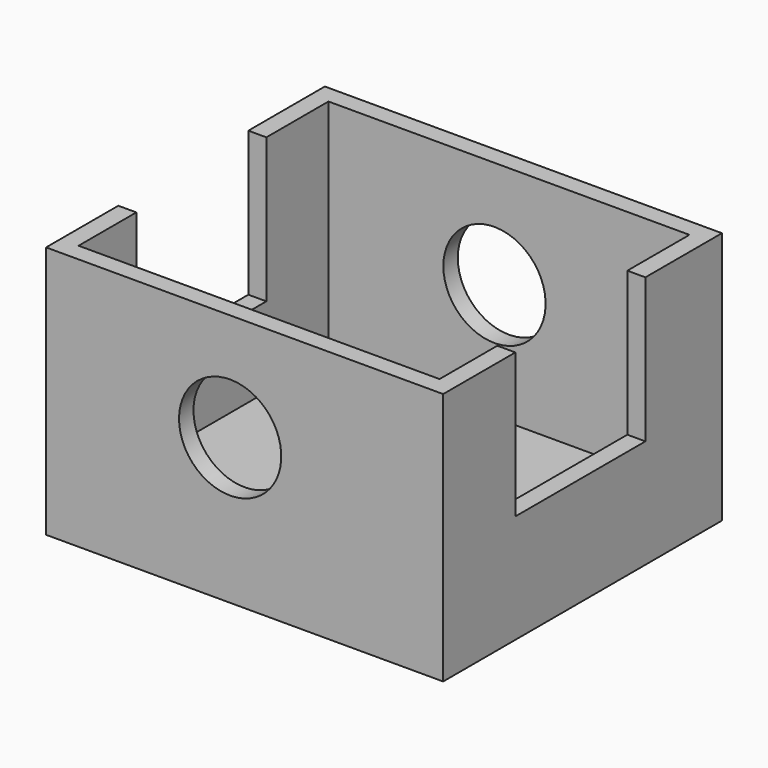
from build123d import *

# Parameters (mm, degrees)
F0_W      = 110
F0_H      = 70
F1_DEPTH  = 8
F2_W      = 5
F2_H      = 40
F2_H_2    = 25
F3_DEPTH  = 62.1
F4_W      = 28
F4_H      = 40
F5_DEPTH  = 117.8
F7_DEPTH  = 15.5
F8_DEPTH  = 17
F9_R      = 14.1609686348
F10_DEPTH = 96.5309327604


with BuildPart() as f1:
    # F0 (on Top) → F1 (new body)
    with BuildSketch(Plane.XY):
        with Locations((4.0090922266, 13.2649663802)):
            Rectangle(F0_W, F0_H)
    extrude(amount=F1_DEPTH)

    # F2 (on face) → F3 (join)
    with BuildSketch(Plane.XY.offset(8)):
        Polygon((59.0090922266, 48.2649663802), (-50.9909077734, 48.2649663802), (-50.9909077734, 43.2649663802), (-45.9909077734, 43.2649663802), (54.0090922266, 43.2649663802), (59.0090922266, 43.2649663802), align=None)
        with Locations((-48.4909077734, 23.2649663802)):
            Rectangle(F2_W, F2_H)
        with Locations((56.5090922266, 23.2649663802)):
            Rectangle(F2_W, F2_H)
        with Locations((-48.4909077734, -9.2350336198)):
            Rectangle(F2_W, F2_H_2)
        with Locations((56.5090922266, -9.2350336198)):
            Rectangle(F2_W, F2_H_2)
    extrude(amount=F3_DEPTH)

    # F4 (on face) → F5 (cut)
    with BuildSketch(Plane(origin=(-50.9909077734, 0, 0), x_dir=(0, -1, 0), z_dir=(-1, 0, 0))):
        with Locations((7.7350336198, 50.1)):
            Rectangle(F4_W, F4_H)
    extrude(amount=-F5_DEPTH, mode=Mode.SUBTRACT)

    # F6: F1 across plane


with BuildPart() as f1_1:
    add(f1.part)
    add(f1.part.mirror(Plane.XZ))

    # F7 (cut): faces of the model
    f7_faces = [f1_1.faces().sort_by_distance(p)[0] for p in [
        (-48.4909077734, 6.2649663802, 50.1),
        (56.5090922266, 6.2649663802, 50.1),
    ]]
    extrude(f7_faces, amount=-F7_DEPTH, mode=Mode.SUBTRACT)

    # F8 (cut): faces of the model
    f8_faces = [f1_1.faces().sort_by_distance(p)[0] for p in [
        (56.5090922266, -6.2649663802, 50.1),
        (-48.4909077734, -6.2649663802, 50.1),
    ]]
    extrude(f8_faces, amount=-F8_DEPTH, mode=Mode.SUBTRACT)

    # F9 (on face) → F10 (cut, through all)
    with BuildSketch(Plane(origin=(0, 48.2649663802, 0), x_dir=(-1, 0, 0), z_dir=(0, 1, 0))):
        with Locations((0, 40.3115488589)):
            Circle(F9_R)
    extrude(amount=-F10_DEPTH, mode=Mode.SUBTRACT)


solid = f1_1.part
